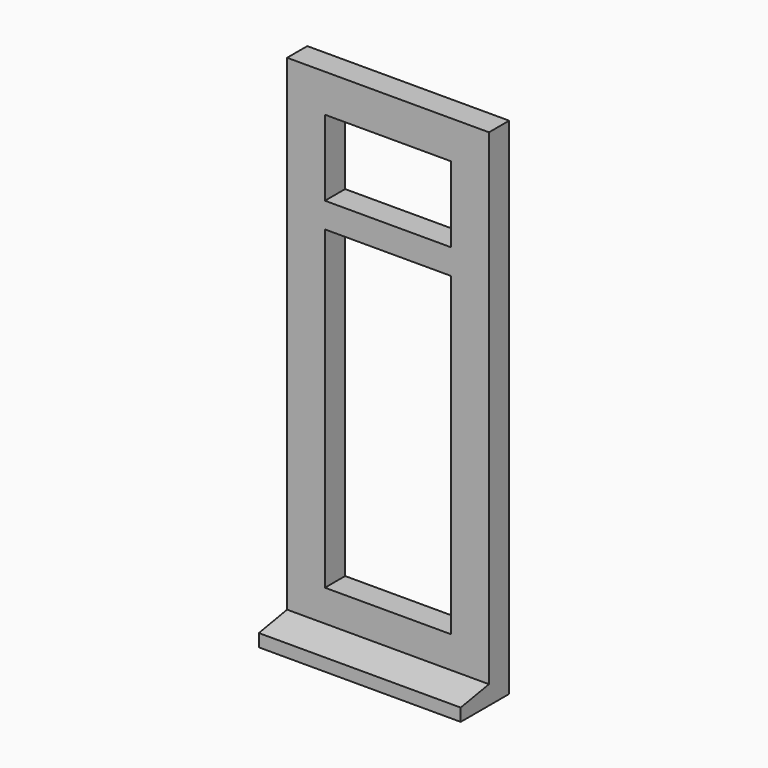
from build123d import *

# Parameters (mm, degrees)
F0_W     = 400
F0_H     = 1000
F0_W_2   = 250
F0_H_2   = 625
F0_H_3   = 150
F1_DEPTH = 50
F3_DEPTH = 400


with BuildPart() as f1:
    # F0 (on Front) → F1 (new body)
    with BuildSketch(Plane.XZ):
        with Locations((200, -500)):
            Rectangle(F0_W, F0_H)
        with Locations((200, -587.5)):
            Rectangle(F0_W_2, F0_H_2, mode=Mode.SUBTRACT)
        with Locations((200, -150)):
            Rectangle(F0_W_2, F0_H_3, mode=Mode.SUBTRACT)
    extrude(amount=-F1_DEPTH)

    # F2 (on face) → F3 (join)
    with BuildSketch(Plane.YZ.offset(400)):
        Polygon((-70, -1000), (0, -1000), (0, -962.657111), (-70, -975), align=None)
    extrude(amount=-F3_DEPTH)


solid = f1.part
